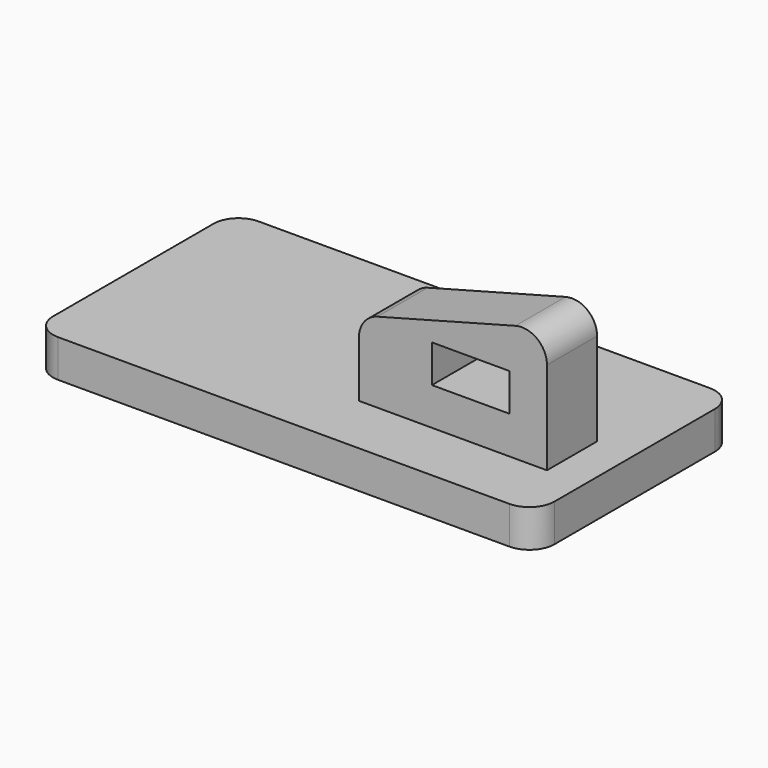
from build123d import *

# Parameters (mm, degrees)
F0_W     = 200
F0_H     = 100
F1_DEPTH = 15
F3_W     = 30.8789272606
F3_H     = 15
F4_DEPTH = 25
F5_R     = 10


with BuildPart() as f1:
    # F0 (on Top) → F1 (new body)
    with BuildSketch(Plane.XY):
        Rectangle(F0_W, F0_H)
    extrude(amount=F1_DEPTH)

    # F3 (on offset) → F4 (join)
    with BuildSketch(Plane.XZ.offset(25)):
        Polygon((10, 15), (85, 15), (85, 65), (10, 45), align=None)
        with Locations((54.5605363697, 37.5)):
            Rectangle(F3_W, F3_H, mode=Mode.SUBTRACT)
    extrude(amount=-F4_DEPTH)

    # F5
    f5_edges = [f1.edges().sort_by_distance(p)[0] for p in [
        (-100, 50, 7.5),
        (-100, -50, 7.5),
        (100, -50, 7.5),
        (100, 50, 7.5),
        (10, -12.5, 45),
        (85, -12.5, 65),
    ]]
    fillet(f5_edges, radius=F5_R)


solid = f1.part
